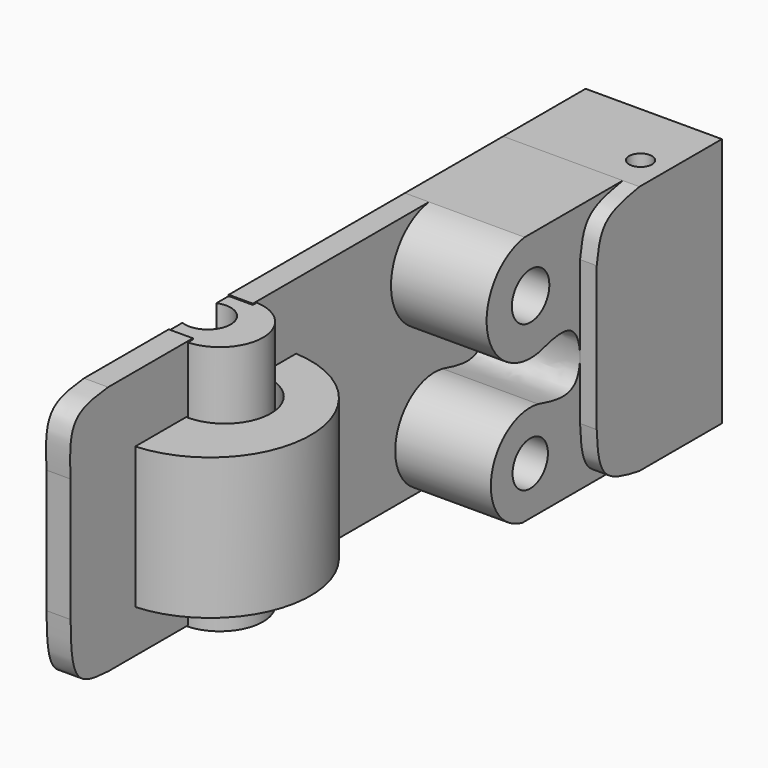
from build123d import *

# Parameters (mm, degrees)
F1_DEPTH  = 41.656
F2_DEPTH  = 7.366
F0_R      = 6.755967202
F0_R_2    = 7.1540660552
F3_DEPTH  = 36.576
F5_R      = 3.4962937173
F6_DEPTH  = 76.962
F11_DEPTH = 43.18
F12_DEPTH = 76.454


with BuildPart() as f1:
    # F0 (on Right) → F1 (new body)
    with BuildSketch(Plane.YZ):
        with BuildLine():
            Line((124.284863472, 37.9441045225), (92.7840918303, 37.9441045225))
            add(Edge.make_bspline(
                [(76.4609649777, 23.3392044902), (76.9895934803, 27.1475551039), (78.1188161003, 35.2827117164), (87.6922932924, 37.0200662536), (92.7840918303, 37.9441045225)],
                knots=[0, 0, 0, 0, 0.468134886, 1, 1, 1, 1], degree=3))
            Line((76.4609649777, 23.3392044902), (76.4609649777, -20.7618735731))
            add(Edge.make_bspline(
                [(76.4609649777, -20.7618735731), (76.7180250693, -25.7273470106), (77.2395732538, -35.8017760714), (87.5536206775, -37.6032749156), (92.7840918303, -38.5168530047)],
                knots=[0, 0, 0, 0, 0.4928788925, 1, 1, 1, 1], degree=3))
            Line((92.7840918303, -38.5168530047), (124.284863472, -38.5168530047))
            Line((124.284863472, -38.5168530047), (124.284863472, 37.9441045225))
        make_face()
    extrude(amount=F1_DEPTH)

    # F5 (on offset) → F6 (cut)
    with BuildSketch(Plane(origin=(0, 0, -38.7708530047), x_dir=(1, 0, 0), z_dir=(0, 0, -1))):
        with Locations((33.3044752479, -103.6355346441)):
            Circle(F5_R)
    extrude(amount=-F6_DEPTH, mode=Mode.SUBTRACT)


with BuildPart() as f2:
    # F0 (on Right) → F2 (new body)
    with BuildSketch(Plane.YZ):
        with BuildLine():
            ThreePointArc((60.4242049158, 4.7251125798), (40.9485352592, 18.7124540736), (55.2695356309, 37.9441045225))
            Line((55.2695356309, 37.9441045225), (-12.0275653899, 37.9441045225))
            Line((-12.0275653899, 37.9441045225), (-12.0275653899, 16.752678901))
            Line((-12.0275653899, 16.752678901), (5.1546725444, 16.752678901))
            Line((5.1546725444, 16.752678901), (5.1546725444, -17.3254273832))
            Line((5.1546725444, -17.3254273832), (-12.0275653899, -17.3254273832))
            Line((-12.0275653899, -17.3254273832), (-12.0275653899, -38.5168530047))
            Line((-12.0275653899, -38.5168530047), (54.4104210101, -38.5168530047))
            ThreePointArc((54.4104210101, -38.5168530047), (42.6692253444, -20.7618734334), (60.4242049158, -9.0206777677))
            add(Edge.make_bspline(
                [(60.4242049158, 4.7251125798), (65.8143502447, 6.2401412629), (76.6162017435, 9.2762588168), (77.6322797861, -13.6921261943), (66.1918946871, -10.5864232395), (60.4242049158, -9.0206777677)],
                knots=[0, 0, 0, 0, 0.3305989505, 0.6625203127, 1, 1, 1, 1], degree=3))
        make_face()
    extrude(amount=F2_DEPTH)


with BuildPart() as f2b:
    # F0 (on Right) → F2, piece 2 (new body)
    with BuildSketch(Plane.YZ):
        with BuildLine():
            Line((-34.9372178316, 16.752678901), (-34.9372178316, 37.9441045225))
            Line((-34.9372178316, 37.9441045225), (-67.2971010208, 37.9441045225))
            add(Edge.make_bspline(
                [(-67.2971010208, 37.9441045225), (-72.2404657293, 37.3952796442), (-82.5086018901, 36.2552851443), (-81.9205708818, 24.9211921025), (-81.6156342626, 19.0436448902)],
                knots=[0, 0, 0, 0, 0.4814276545, 1, 1, 1, 1], degree=3))
            Line((-81.6156342626, 19.0436448902), (-81.6156342626, -18.7572799623))
            add(Edge.make_bspline(
                [(-67.2971010208, -38.5168530047), (-71.6662403179, -38.2681333646), (-81.3089337723, -37.7192089467), (-81.5072020558, -25.4611616643), (-81.6156342626, -18.7572799623)],
                knots=[0, 0, 0, 0, 0.4531036186, 1, 1, 1, 1], degree=3))
            Line((-67.2971010208, -38.5168530047), (-34.9372178316, -38.5168530047))
            Line((-34.9372178316, -38.5168530047), (-34.9372178316, -17.3254273832))
            Line((-34.9372178316, -17.3254273832), (-56.7013844848, -17.3254273832))
            Line((-56.7013844848, -17.3254273832), (-56.7013844848, 16.752678901))
            Line((-56.7013844848, 16.752678901), (-34.9372178316, 16.752678901))
        make_face()
    extrude(amount=F2_DEPTH)


with BuildPart() as f3:
    # F0 (on Right) → F3 (new body)
    with BuildSketch(Plane.YZ):
        with BuildLine():
            Line((92.7840918303, 37.9441045225), (59.8514638841, 37.9441045225))
            Line((59.8514638841, 37.9441045225), (55.2695356309, 37.9441045225))
            ThreePointArc((55.2695356309, 37.9441045225), (40.9485352592, 18.7124540736), (60.4242049158, 4.7251125798))
            add(Edge.make_bspline(
                [(60.4242049158, 4.7251125798), (65.8143502447, 6.2401412629), (76.6162017435, 9.2762588168), (77.6322797861, -13.6921261943), (66.1918946871, -10.5864232395), (60.4242049158, -9.0206777677)],
                knots=[0, 0, 0, 0, 0.3305989505, 0.6625203127, 1, 1, 1, 1], degree=3))
            ThreePointArc((60.4242049158, -9.0206777677), (42.6692253444, -20.7618734334), (54.4104210101, -38.5168530047))
            Line((54.4104210101, -38.5168530047), (60.4242049158, -38.5168530047))
            Line((60.4242049158, -38.5168530047), (92.7840918303, -38.5168530047))
            add(Edge.make_bspline(
                [(76.4609649777, -20.7618735731), (76.7180250693, -25.7273470106), (77.2395732538, -35.8017760714), (87.5536206775, -37.6032749156), (92.7840918303, -38.5168530047)],
                knots=[0, 0, 0, 0, 0.4928788925, 1, 1, 1, 1], degree=3))
            Line((76.4609649777, -20.7618735731), (76.4609649777, 23.3392044902))
            add(Edge.make_bspline(
                [(76.4609649777, 23.3392044902), (76.9895934803, 27.1475551039), (78.1188161003, 35.2827117164), (87.6922932924, 37.0200662536), (92.7840918303, 37.9441045225)],
                knots=[0, 0, 0, 0, 0.468134886, 1, 1, 1, 1], degree=3))
        make_face()
        with Locations((57.4173129629, -23.7687653862)):
            Circle(F0_R, mode=Mode.SUBTRACT)
        with Locations((57.5604997575, 21.2901717631)):
            Circle(F0_R_2, mode=Mode.SUBTRACT)
    extrude(amount=F3_DEPTH)


with BuildPart() as f11:
    # F8 (on offset) → F11 (new body)
    with BuildSketch(Plane.XY.offset(17.78)):
        with BuildLine():
            Line((0, -35.0608862936), (0, -56.459903717))
            ThreePointArc((0, -56.459903717), (36.4058124739, -26.2173388619), (0, 4.0252259932))
            Line((0, 4.0252259932), (0, -11.7455562577))
            ThreePointArc((0, -11.7455562577), (21.9665194179, -23.4032212757), (0, -35.0608862936))
        make_face()
    extrude(amount=-F11_DEPTH)


with BuildPart() as f12:
    # F10 (on offset) → F12 (new body)
    with BuildSketch(Plane.XY.offset(37.592)):
        with BuildLine():
            ThreePointArc((0, -16.6867468506), (9.5384043978, -23.1987070292), (0, -29.7106672078))
            Line((0, -29.7106672078), (0, -35.0786559284))
            ThreePointArc((0, -35.0786559284), (19.7988561915, -23.6690286547), (0, -12.259401381))
            Line((0, -12.259401381), (0, -16.6867468506))
        make_face()
    extrude(amount=-F12_DEPTH)


solid = Compound([f1.part, f2.part, f2b.part, f3.part, f11.part, f12.part])
